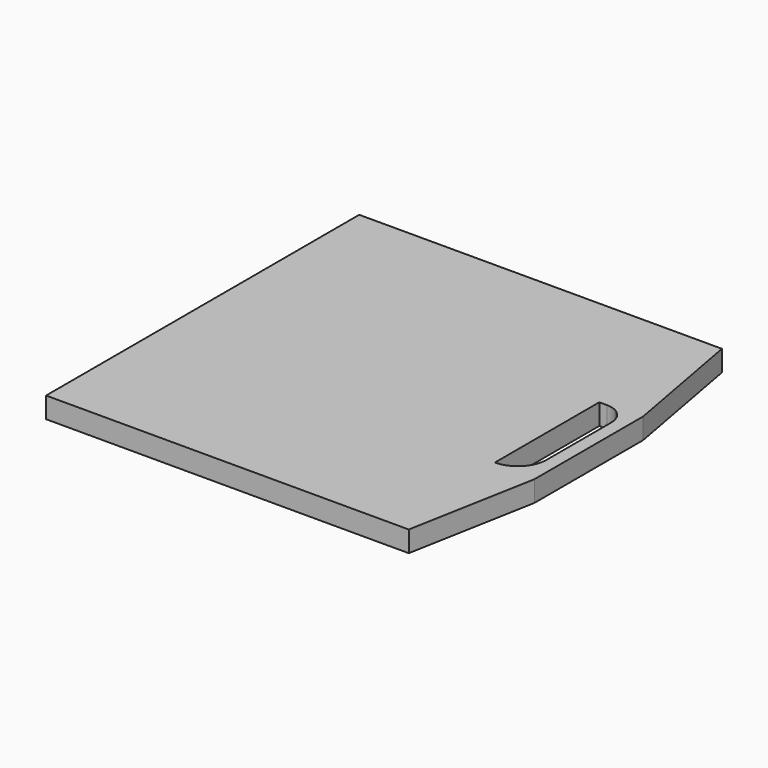
from build123d import *

# Parameters (mm, degrees)
F1_DEPTH = 25.4


with BuildPart() as f1:
    # F0 (on Top) → F1 (new body)
    with BuildSketch(Plane.XY):
        Polygon((72.832607, -21.866195), (72.832607, -177.441195), (101.407607, -21.866195), align=None)
        Polygon((72.832607, 143.233805), (101.407607, 143.233805), (72.832607, 298.808805), align=None)
        with BuildLine():
            Line((-368.492393, -177.441195), (72.832607, -177.441195))
            Line((72.832607, -177.441195), (72.832607, -21.866195))
            Line((72.832607, -21.866195), (72.832607, -10.706964))
            ThreePointArc((72.832607, -10.706964), (62.415429, -16.634584), (50.607607, -18.691195))
            Line((50.607607, -18.691195), (50.607607, 140.058805))
            Line((50.607607, 140.058805), (60.132607, 140.058805))
            ThreePointArc((60.132607, 140.058805), (66.706611, 139.193321), (72.832607, 136.65585))
            Line((72.832607, 136.65585), (72.832607, 143.233805))
            Line((72.832607, 143.233805), (72.832607, 298.808805))
            Line((72.832607, 298.808805), (-368.492393, 298.808805))
            Line((-368.492393, 298.808805), (-368.492393, -177.441195))
        make_face()
        with BuildLine():
            Line((72.832607, -10.706964), (72.832607, -21.866195))
            Line((72.832607, -21.866195), (101.407607, -21.866195))
            Line((101.407607, -21.866195), (101.407607, 143.233805))
            Line((101.407607, 143.233805), (72.832607, 143.233805))
            Line((72.832607, 143.233805), (72.832607, 136.65585))
            ThreePointArc((72.832607, 136.65585), (82.129653, 127.358805), (85.532607, 114.658805))
            Line((85.532607, 114.658805), (85.532607, 16.233805))
            ThreePointArc((85.532607, 16.233805), (82.198459, 1.341735), (72.832607, -10.706964))
        make_face()
    extrude(amount=F1_DEPTH)


solid = f1.part
